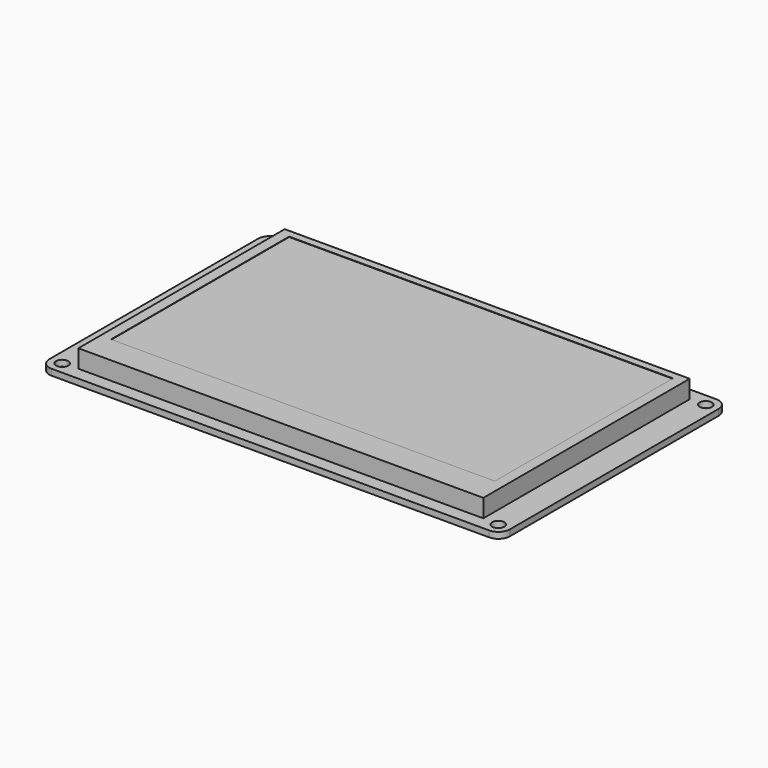
from build123d import *

# Parameters (mm, degrees)
F0_W     = 120
F0_H     = 74
F0_R     = 1.6
F1_DEPTH = 1.6
F2_W     = 105.5
F2_H     = 67.2
F3_DEPTH = 4.7
F4_W     = 100
F4_H     = 58
F5_DEPTH = 0.1
F6_W     = 15
F6_H     = 15
F7_DEPTH = 2
F6_W_2   = 8
F8_DEPTH = 6
F9_R     = 3


with BuildPart() as f1:
    # F0 (on Top) → F1 (new body)
    with BuildSketch(Plane.XY):
        Rectangle(F0_W, F0_H)
        with Locations((-56.8, -33.8)):
            Circle(F0_R, mode=Mode.SUBTRACT)
        with Locations((56.8, -33.8)):
            Circle(F0_R, mode=Mode.SUBTRACT)
        with Locations((-56.8, 33.8)):
            Circle(F0_R, mode=Mode.SUBTRACT)
        with Locations((56.8, 33.8)):
            Circle(F0_R, mode=Mode.SUBTRACT)
    extrude(amount=F1_DEPTH)

    # F2 (on face) → F3 (join)
    with BuildSketch(Plane.XY.offset(1.6)):
        with Locations((0, 0.01)):
            Rectangle(F2_W, F2_H)
    extrude(amount=F3_DEPTH)

    # F4 (on face) → F5 (cut)
    with BuildSketch(Plane.XY.offset(6.3)):
        with Locations((0, 2.61)):
            Rectangle(F4_W, F4_H)
    extrude(amount=-F5_DEPTH, mode=Mode.SUBTRACT)

    # F6 (on face) → F7 (join)
    with BuildSketch(Plane(origin=(0, 0, 0), x_dir=(1, 0, 0), z_dir=(0, 0, -1))):
        with Locations((43.37, -29.5)):
            Rectangle(F6_W, F6_H)
    extrude(amount=F7_DEPTH)

    # F6 (on face) → F8 (join)
    with BuildSketch(Plane(origin=(0, 0, 0), x_dir=(1, 0, 0), z_dir=(0, 0, -1))):
        with Locations((-56, 0)):
            Rectangle(F6_W_2, F6_H)
    extrude(amount=F8_DEPTH)

    # F9
    f9_edges = [f1.edges().sort_by_distance(p)[0] for p in [
        (60, 37, 0.8),
        (60, -37, 0.8),
        (-60, -37, 0.8),
        (-60, 37, 0.8),
    ]]
    fillet(f9_edges, radius=F9_R)


solid = f1.part
